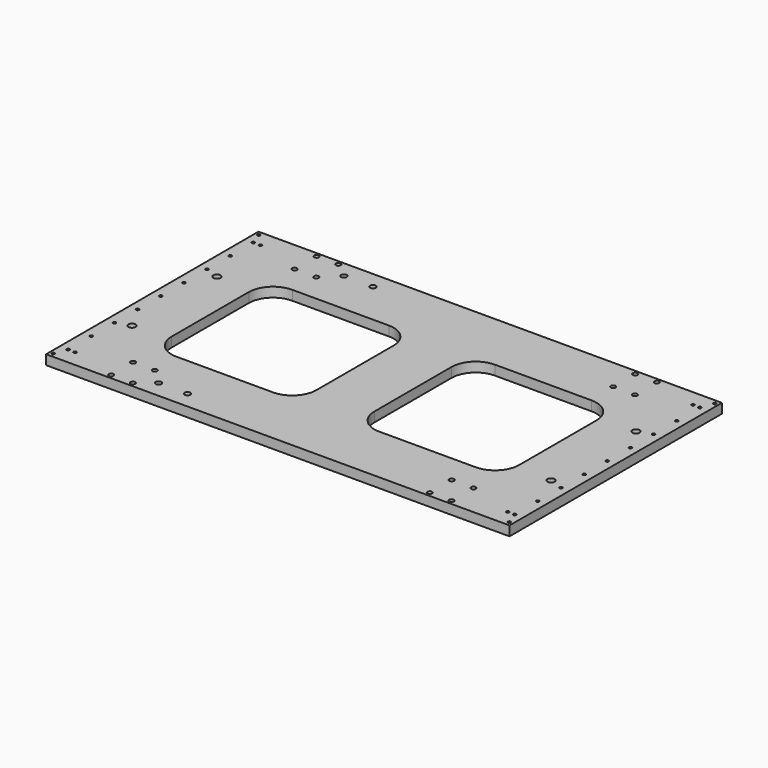
from build123d import *

# Parameters (mm, degrees)
F0_W     = 960
F0_H     = 550
F0_R     = 3
F0_R_2   = 5
F0_R_3   = 6
F0_R_4   = 7.5
F1_DEPTH = 20


with BuildPart() as f1:
    # F0 (on Top) → F1 (new body)
    with BuildSketch(Plane.XY):
        with Locations((480, -275)):
            Rectangle(F0_W, F0_H)
        with Locations((7.5, -541)):
            Circle(F0_R, mode=Mode.SUBTRACT)
        with Locations((17.5, -515)):
            Circle(F0_R, mode=Mode.SUBTRACT)
        with Locations((32, -515)):
            Circle(F0_R, mode=Mode.SUBTRACT)
        with Locations((127.5, -541)):
            Circle(F0_R_2, mode=Mode.SUBTRACT)
        with Locations((172.5, -541)):
            Circle(F0_R_2, mode=Mode.SUBTRACT)
        with Locations((127.5, -484)):
            Circle(F0_R_2, mode=Mode.SUBTRACT)
        with Locations((172.5, -484)):
            Circle(F0_R_2, mode=Mode.SUBTRACT)
        with Locations((205, -515)):
            Circle(F0_R_3, mode=Mode.SUBTRACT)
        with Locations((17.5, -455)):
            Circle(F0_R, mode=Mode.SUBTRACT)
        with Locations((265, -515)):
            Circle(F0_R_3, mode=Mode.SUBTRACT)
        with Locations((17.5, -395)):
            Circle(F0_R, mode=Mode.SUBTRACT)
        with Locations((46, -385)):
            Circle(F0_R_4, mode=Mode.SUBTRACT)
        with Locations((17.5, -335)):
            Circle(F0_R, mode=Mode.SUBTRACT)
        with Locations((787.5, -541)):
            Circle(F0_R_2, mode=Mode.SUBTRACT)
        with Locations((832.5, -541)):
            Circle(F0_R_2, mode=Mode.SUBTRACT)
        with Locations((787.5, -484)):
            Circle(F0_R_2, mode=Mode.SUBTRACT)
        with Locations((832.5, -484)):
            Circle(F0_R_2, mode=Mode.SUBTRACT)
        with Locations((952.5, -541)):
            Circle(F0_R, mode=Mode.SUBTRACT)
        with Locations((928, -515)):
            Circle(F0_R, mode=Mode.SUBTRACT)
        with Locations((942.5, -515)):
            Circle(F0_R, mode=Mode.SUBTRACT)
        with Locations((942.5, -455)):
            Circle(F0_R, mode=Mode.SUBTRACT)
        with Locations((914, -385)):
            Circle(F0_R_4, mode=Mode.SUBTRACT)
        with Locations((942.5, -395)):
            Circle(F0_R, mode=Mode.SUBTRACT)
        with Locations((942.5, -335)):
            Circle(F0_R, mode=Mode.SUBTRACT)
        with Locations((17.5, -275)):
            Circle(F0_R, mode=Mode.SUBTRACT)
        with Locations((17.5, -215)):
            Circle(F0_R, mode=Mode.SUBTRACT)
        with Locations((17.5, -155)):
            Circle(F0_R, mode=Mode.SUBTRACT)
        with Locations((46, -165)):
            Circle(F0_R_4, mode=Mode.SUBTRACT)
        with BuildLine():
            ThreePointArc((120, -175), (134.644661, -139.644661), (170, -125))
            Line((170, -125), (370, -125))
            ThreePointArc((370, -125), (405.355339, -139.644661), (420, -175))
            Line((420, -175), (420, -375))
            ThreePointArc((420, -375), (405.355339, -410.355339), (370, -425))
            Line((370, -425), (170, -425))
            ThreePointArc((170, -425), (134.644661, -410.355339), (120, -375))
            Line((120, -375), (120, -175))
        make_face(mode=Mode.SUBTRACT)
        with Locations((17.5, -95)):
            Circle(F0_R, mode=Mode.SUBTRACT)
        with Locations((17.5, -35)):
            Circle(F0_R, mode=Mode.SUBTRACT)
        with Locations((32, -35)):
            Circle(F0_R, mode=Mode.SUBTRACT)
        with Locations((7.5, -9)):
            Circle(F0_R, mode=Mode.SUBTRACT)
        with Locations((127.5, -66)):
            Circle(F0_R_2, mode=Mode.SUBTRACT)
        with Locations((172.5, -66)):
            Circle(F0_R_2, mode=Mode.SUBTRACT)
        with Locations((205, -35)):
            Circle(F0_R_3, mode=Mode.SUBTRACT)
        with Locations((127.5, -9)):
            Circle(F0_R_2, mode=Mode.SUBTRACT)
        with Locations((172.5, -9)):
            Circle(F0_R_2, mode=Mode.SUBTRACT)
        with Locations((265, -35)):
            Circle(F0_R_3, mode=Mode.SUBTRACT)
        with BuildLine():
            ThreePointArc((840, -375), (825.355339, -410.355339), (790, -425))
            Line((790, -425), (590, -425))
            ThreePointArc((590, -425), (554.644661, -410.355339), (540, -375))
            Line((540, -375), (540, -175))
            ThreePointArc((540, -175), (554.644661, -139.644661), (590, -125))
            Line((590, -125), (790, -125))
            ThreePointArc((790, -125), (825.355339, -139.644661), (840, -175))
            Line((840, -175), (840, -375))
        make_face(mode=Mode.SUBTRACT)
        with Locations((942.5, -275)):
            Circle(F0_R, mode=Mode.SUBTRACT)
        with Locations((942.5, -215)):
            Circle(F0_R, mode=Mode.SUBTRACT)
        with Locations((914, -165)):
            Circle(F0_R_4, mode=Mode.SUBTRACT)
        with Locations((942.5, -155)):
            Circle(F0_R, mode=Mode.SUBTRACT)
        with Locations((942.5, -95)):
            Circle(F0_R, mode=Mode.SUBTRACT)
        with Locations((787.5, -66)):
            Circle(F0_R_2, mode=Mode.SUBTRACT)
        with Locations((832.5, -66)):
            Circle(F0_R_2, mode=Mode.SUBTRACT)
        with Locations((787.5, -9)):
            Circle(F0_R_2, mode=Mode.SUBTRACT)
        with Locations((832.5, -9)):
            Circle(F0_R_2, mode=Mode.SUBTRACT)
        with Locations((928, -35)):
            Circle(F0_R, mode=Mode.SUBTRACT)
        with Locations((942.5, -35)):
            Circle(F0_R, mode=Mode.SUBTRACT)
        with Locations((952.5, -9)):
            Circle(F0_R, mode=Mode.SUBTRACT)
    extrude(amount=F1_DEPTH)


solid = f1.part
